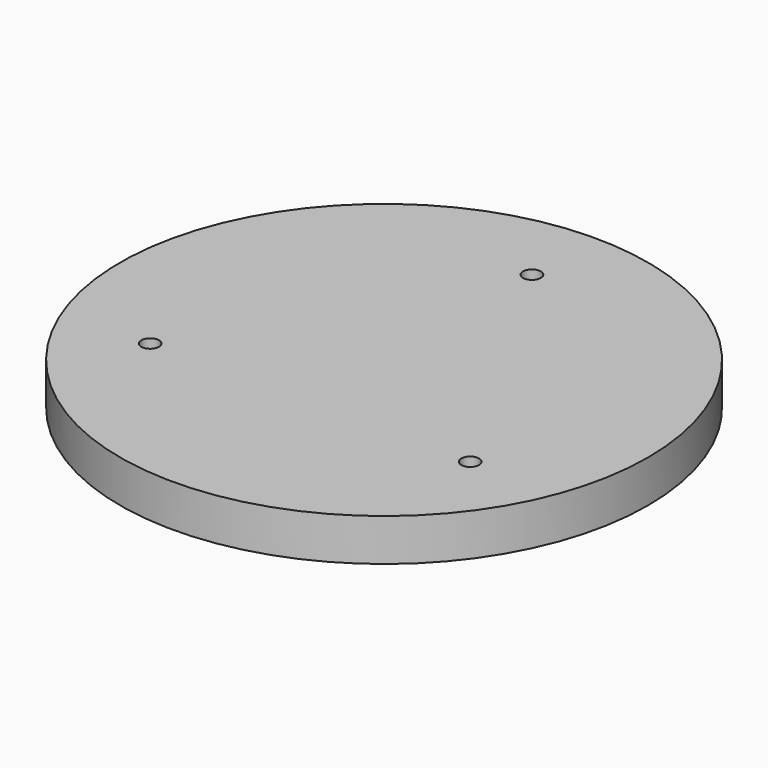
from build123d import *

# Parameters (mm, degrees)
F0_R     = 100
F0_R_2   = 3.375
F1_DEPTH = 16


with BuildPart() as f1:
    # F0 (on Top) → F1 (new body)
    with BuildSketch(Plane.XY):
        Circle(F0_R)
        with Locations((-60.621778, -35)):
            Circle(F0_R_2, mode=Mode.SUBTRACT)
        with Locations((60.621778, -35)):
            Circle(F0_R_2, mode=Mode.SUBTRACT)
        with Locations((0, 70)):
            Circle(F0_R_2, mode=Mode.SUBTRACT)
    extrude(amount=F1_DEPTH)


solid = f1.part
